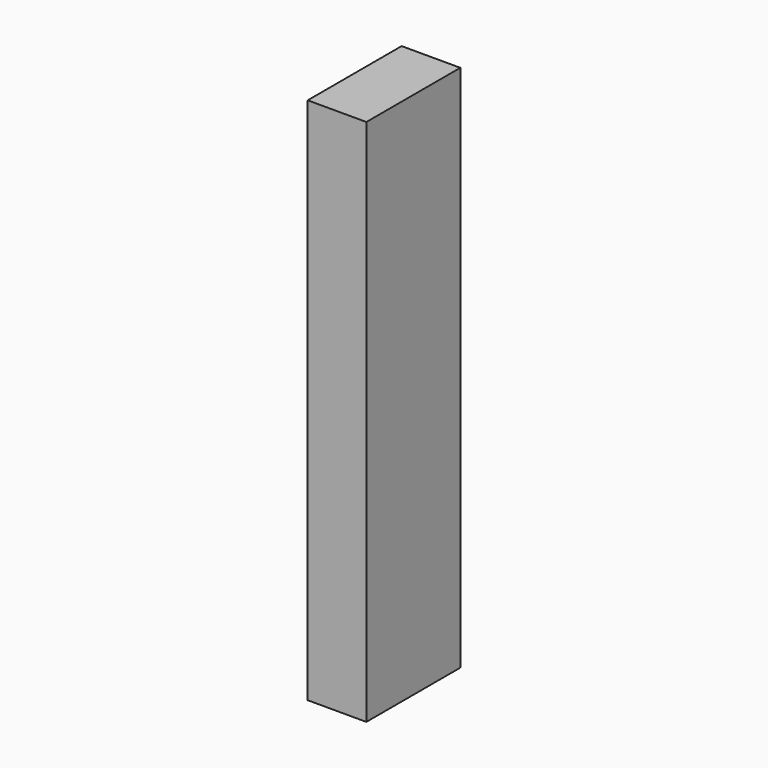
from build123d import *

# Parameters (mm, degrees)
SKETCH_W  = 50.8
SKETCH_H  = 101.6
PAD_DEPTH = 457


with BuildPart() as part:
    # Sketch → Pad (new body)
    with BuildSketch(Plane.XY):
        with Locations((25.4, 50.8)):
            Rectangle(SKETCH_W, SKETCH_H)
    extrude(amount=PAD_DEPTH)


solid = part.part
